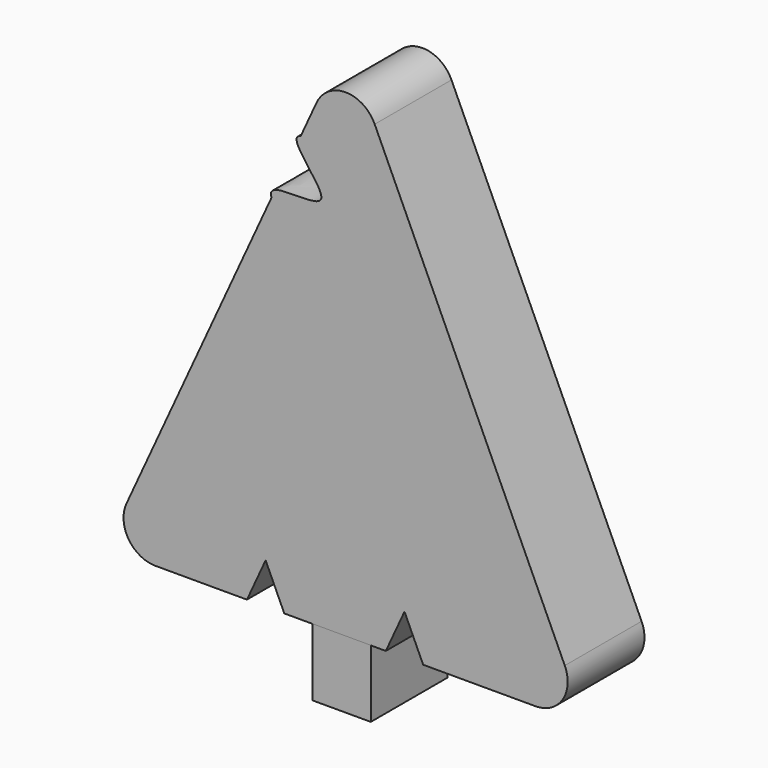
from build123d import *

# Parameters (mm, degrees)
F2_DEPTH = 15
F0_W     = 9.1302250512
F0_H     = 10.5469860137
F3_DEPTH = 15


with BuildPart() as f2:
    # F1 (on Front) → F2 (new body)
    with BuildSketch(Plane.XZ):
        with BuildLine():
            ThreePointArc((-43.4559331368, -29.6877108018), (-43.11876348, -34.4713527594), (-38.9106364224, -36.7710441351))
            Line((-38.9106364224, -36.7710441351), (-24.6192403138, -36.7710441351))
            Line((-24.6192403138, -36.7710441351), (-21.7025736471, -30.4076287349))
            Line((-21.7025736471, -30.4076287349), (-18.7859069804, -36.7710441351))
            Line((-18.7859069804, -36.7710441351), (-13.9942403138, -36.7710441351))
            Line((-13.9942403138, -36.7710441351), (-9.2025736471, -36.7710441351))
            Line((-9.2025736471, -36.7710441351), (-6.2116375193, -36.7710441351))
            Line((-6.2116375193, -36.7710441351), (-2.917, -36.7710441351))
            Line((-2.917, -36.7710441351), (0, -30.4076287349))
            Line((0, -30.4076287349), (2.917, -36.7710441351))
            Line((2.917, -36.7710441351), (20.5054891282, -36.7710441351))
            ThreePointArc((20.5054891282, -36.7710441351), (24.7136161858, -34.4713527594), (25.0507858426, -29.6877108018))
            Line((25.0507858426, -29.6877108018), (-4.6572769327, 35.127630058))
            ThreePointArc((-4.6572769327, 35.127630058), (-9.2025736471, 38.0442967247), (-13.7478703615, 35.127630058))
            Line((-13.7478703615, 35.127630058), (-16.2195350364, 29.7350943815))
            add(Edge.make_bspline(
                [(-20.7757465894, 19.7946143485), (-21.8724480942, 22.4717409157), (-5.7133538913, 18.3496784962), (-18.9018251697, 29.1361064938), (-16.2195350364, 29.7350943815)],
                knots=[0, 0, 0, 0, 0.49581728, 1, 1, 1, 1], degree=3))
            Line((-20.7757465894, 19.7946143485), (-43.4559331368, -29.6877108018))
        make_face()
    extrude(amount=F2_DEPTH)


with BuildPart() as f3:
    # F0 (on Front) → F3 (new body)
    with BuildSketch(Plane.XZ):
        with Locations((-9.8322441336, -42.0257952064)):
            Rectangle(F0_W, F0_H)
    extrude(amount=F3_DEPTH)


solid = Compound([f2.part, f3.part])
